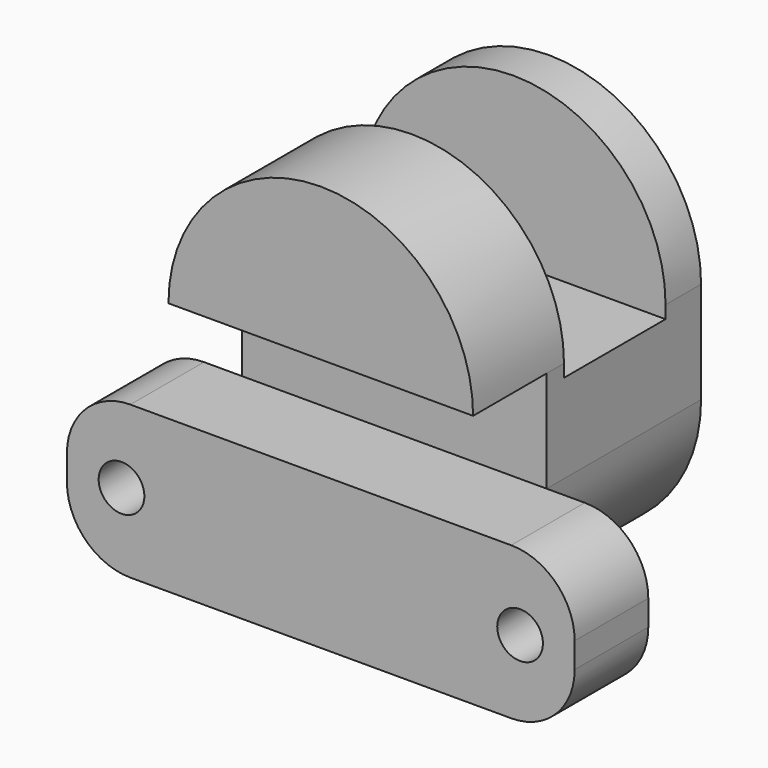
from build123d import *

# Parameters (mm, degrees)
F1_DEPTH  = 7.25
F0_W      = 24
F0_H      = 8
F2_DEPTH  = 1.7
F4_DEPTH  = 10
F6_DEPTH  = 3.5
F7_R      = 5
F9_D      = 3.6
F10_DEPTH = 7


with BuildPart() as f1:
    # F0 (on Front) → F1 (new body)
    with BuildSketch(Plane.XZ):
        with BuildLine():
            Line((20, 12), (12, 12))
            ThreePointArc((12, 12), (8.4852813844, 3.5147186359), (2.86e-08, 0))
            Line((2.86e-08, 0), (20, 0))
            Line((20, 0), (20, 12))
        make_face()
        with BuildLine():
            Line((12, 12), (-12, 12))
            ThreePointArc((-12, 12), (-8.4852813641, 3.5147186156), (2.86e-08, 0))
            ThreePointArc((2.86e-08, 0), (8.4852813844, 3.5147186359), (12, 12))
        make_face()
        with BuildLine():
            Line((-12, 12), (-20, 12))
            Line((-20, 12), (-20, 0))
            Line((-20, 0), (2.86e-08, 0))
            ThreePointArc((2.86e-08, 0), (-8.4852813641, 3.5147186156), (-12, 12))
        make_face()
    extrude(amount=F1_DEPTH)



with BuildPart() as f1b:
    # F0 (on Front) → F1, piece 2 (new body)
    with BuildSketch(Plane.XZ):
        with BuildLine():
            ThreePointArc((12, 20), (0, 32), (-12, 20))
            Line((-12, 20), (12, 20))
        make_face()
    extrude(amount=F1_DEPTH)


with BuildPart() as f1_1:
    add(f1.part)

    add(f1b.part)  # F2 merges F1b
    # F0 (on Front) → F2 (join)
    with BuildSketch(Plane.XZ):
        with BuildLine():
            ThreePointArc((12, 20), (0, 32), (-12, 20))
            Line((-12, 20), (12, 20))
        make_face()
        with Locations((0, 16)):
            Rectangle(F0_W, F0_H)
        with BuildLine():
            Line((12, 12), (-12, 12))
            ThreePointArc((-12, 12), (-8.4852813641, 3.5147186156), (2.86e-08, 0))
            ThreePointArc((2.86e-08, 0), (8.4852813844, 3.5147186359), (12, 12))
        make_face()
    extrude(amount=-F2_DEPTH)

    # F3 (on face) → F4 (join)
    with BuildSketch(Plane(origin=(0, 1.7, 0), x_dir=(-1, 0, 0), z_dir=(0, 1, 0))):
        with BuildLine():
            ThreePointArc((-12, 12), (0, 0), (12, 12))
            Line((12, 12), (-12, 12))
        make_face()
    extrude(amount=F4_DEPTH)

    # F5 (on face) → F6 (join)
    with BuildSketch(Plane(origin=(0, 11.7, 0), x_dir=(-1, 0, 0), z_dir=(0, 1, 0))):
        with BuildLine():
            ThreePointArc((12, 20), (0, 32), (-12, 20))
            Line((-12, 20), (-12, 12))
            ThreePointArc((-12, 12), (0, 0), (12, 12))
            Line((12, 12), (12, 20))
        make_face()
    extrude(amount=F6_DEPTH)

    # F7
    f7_edges = [f1_1.edges().sort_by_distance(p)[0] for p in [
        (-20, -3.625, 12),
        (-20, -3.625, 0),
        (20, -3.625, 12),
        (20, -3.625, 0),
    ]]
    fillet(f7_edges, radius=F7_R)

    # F9 (through all)
    with Locations(Plane(origin=(0, 0, 0), x_dir=(1, 0, 0), z_dir=(0, 1, 0))):
        with Locations((15.7, -6), (-15.7, -6)):
            Hole(F9_D / 2)

    # F10 (add): a face of the model
    f10_faces = [f1_1.faces().sort_by_distance(p)[0] for p in [
        (0, 6.7, 12),
    ]]
    extrude(f10_faces, amount=F10_DEPTH)


solid = f1_1.part
